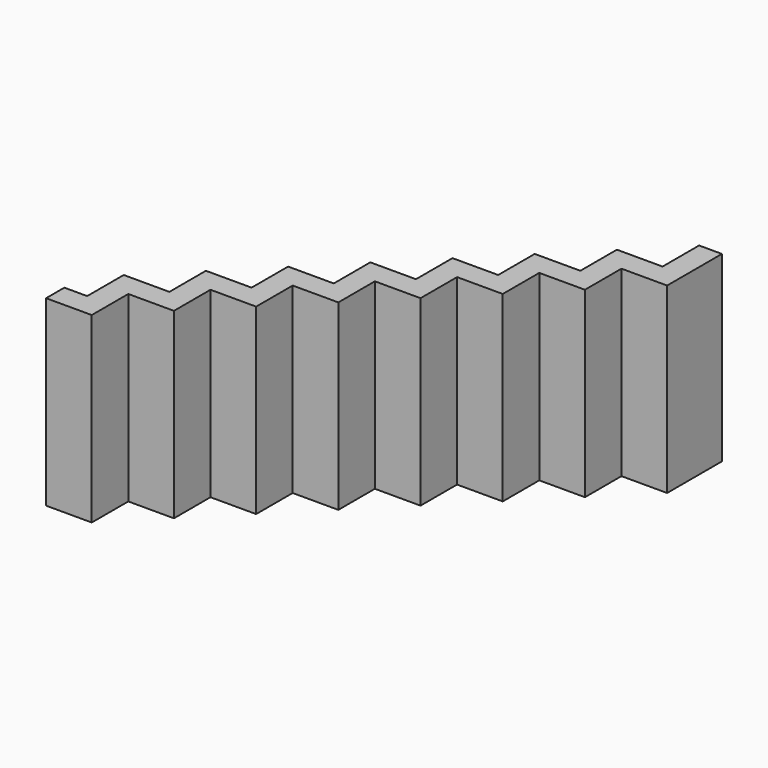
from build123d import *

# Parameters (mm, degrees)
F0_W     = 3.175
F0_H     = 6.35
F1_DEPTH = 25.4


with BuildPart() as f1:
    # F0 (on Top) → F1 (new body)
    with BuildSketch(Plane.XY):
        Polygon((-12.7, -12.7), (-12.7, -9.525), (-15.875, -9.525), (-15.875, -15.875), (-12.7, -15.875), align=None)
        Polygon((-19.05, -19.05), (-19.05, -15.875), (-22.225, -15.875), (-22.225, -22.225), (-19.05, -22.225), align=None)
        Polygon((-12.7, -19.05), (-12.7, -15.875), (-15.875, -15.875), (-19.05, -15.875), (-19.05, -19.05), align=None)
        Polygon((0, -3.175), (0, 0), (0, 3.175), (-3.175, 3.175), (-3.175, -3.175), align=None)
        Polygon((0, -6.35), (0, -3.175), (-3.175, -3.175), (-6.35, -3.175), (-6.35, -6.35), align=None)
        Polygon((-6.35, -6.35), (-6.35, -3.175), (-9.525, -3.175), (-9.525, -9.525), (-6.35, -9.525), align=None)
        Polygon((19.05, 22.225), (19.05, 19.05), (25.4, 19.05), (25.4, 22.225), (22.225, 22.225), align=None)
        Polygon((12.7, 15.875), (12.7, 12.7), (19.05, 12.7), (19.05, 15.875), (15.875, 15.875), align=None)
        Polygon((15.875, 22.225), (15.875, 15.875), (19.05, 15.875), (19.05, 19.05), (19.05, 22.225), align=None)
        Polygon((9.525, 15.875), (9.525, 9.525), (12.7, 9.525), (12.7, 12.7), (12.7, 15.875), align=None)
        Polygon((6.35, 9.525), (6.35, 6.35), (12.7, 6.35), (12.7, 9.525), (9.525, 9.525), align=None)
        Polygon((-6.35, -12.7), (-6.35, -9.525), (-9.525, -9.525), (-12.7, -9.525), (-12.7, -12.7), align=None)
        Polygon((3.175, 3.175), (6.35, 3.175), (6.35, 6.35), (6.35, 9.525), (3.175, 9.525), align=None)
        Polygon((0, 3.175), (0, 0), (6.35, 0), (6.35, 3.175), (3.175, 3.175), align=None)
        Polygon((-19.05, -25.4), (-19.05, -22.225), (-22.225, -22.225), (-25.4, -22.225), (-25.4, -25.4), align=None)
        with Locations((23.8125, 25.4)):
            Rectangle(F0_W, F0_H)
    extrude(amount=F1_DEPTH)


solid = f1.part
